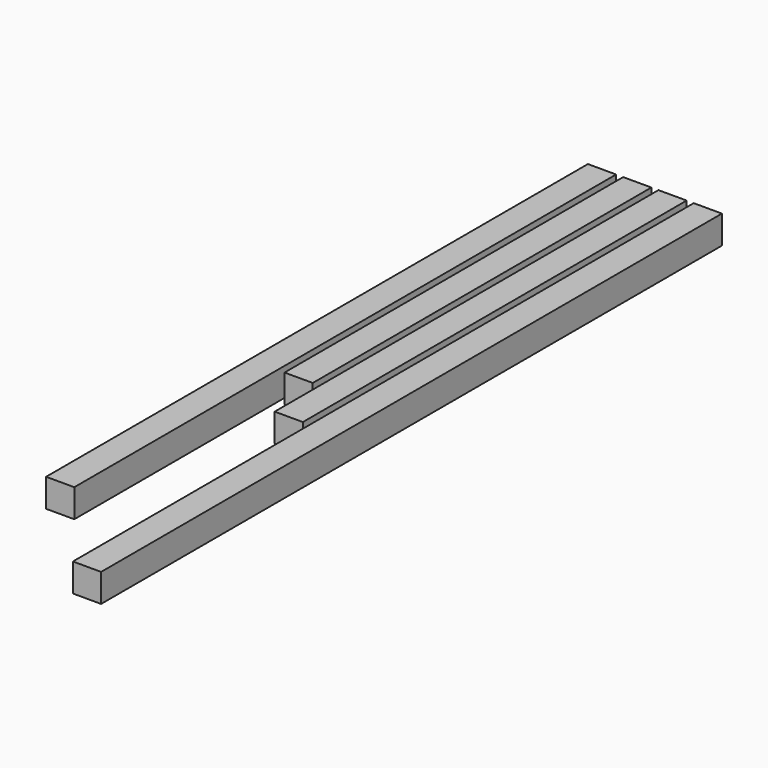
from build123d import *

# Parameters (mm, degrees)
F0_W     = 20
F0_H     = 20
F1_DEPTH = 480
F2_DEPTH = 300
F3_DEPTH = 340
F4_DEPTH = 550


with BuildPart() as f1:
    # F0 (on Front) → F1 (new body)
    with BuildSketch(Plane.XZ):
        with Locations((10, 10)):
            Rectangle(F0_W, F0_H)
    extrude(amount=F1_DEPTH)


with BuildPart() as f2:
    # F0 (on Front) → F2 (new body)
    with BuildSketch(Plane.XZ):
        with Locations((35, 10)):
            Rectangle(F0_W, F0_H)
    extrude(amount=F2_DEPTH)


with BuildPart() as f3:
    # F0 (on Front) → F3 (new body)
    with BuildSketch(Plane.XZ):
        with Locations((60, 10)):
            Rectangle(F0_W, F0_H)
    extrude(amount=F3_DEPTH)


with BuildPart() as f4:
    # F0 (on Front) → F4 (new body)
    with BuildSketch(Plane.XZ):
        with Locations((85, 10)):
            Rectangle(F0_W, F0_H)
    extrude(amount=F4_DEPTH)


solid = Compound([f1.part, f2.part, f3.part, f4.part])
